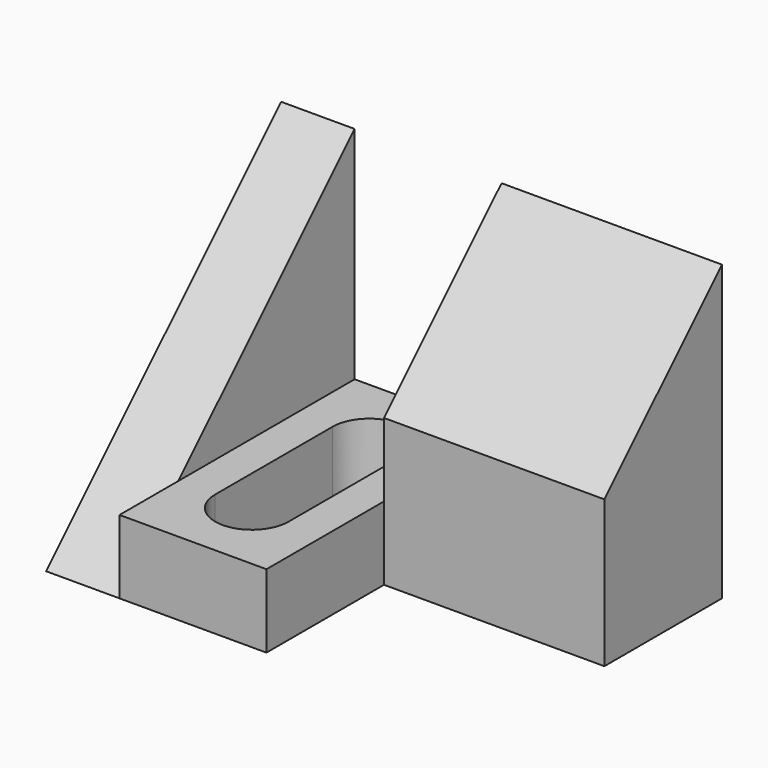
from build123d import *

# Parameters (mm, degrees)
F0_W     = 6.35
F0_H     = 25.4
F0_W_2   = 19.05
F0_H_2   = 12.7
F1_DEPTH = 25.4
F2_W     = 12.7
F2_H     = 25.4
F3_DEPTH = 19.05
F5_DEPTH = 38.101
F7_DEPTH = 6.35


with BuildPart() as f1:
    # F0 (on Top) → F1 (new body)
    with BuildSketch(Plane.XY):
        with Locations((3.175, 12.7)):
            Rectangle(F0_W, F0_H)
        Polygon((6.35, 25.4), (6.35, 0), (19.05, 0), (19.05, 12.7), (19.05, 25.4), align=None)
        with BuildLine():
            Line((9.525, 6.35), (9.525, 19.05))
            ThreePointArc((9.525, 19.05), (12.7, 22.225), (15.875, 19.05))
            Line((15.875, 19.05), (15.875, 6.35))
            ThreePointArc((15.875, 6.35), (12.7, 3.175), (9.525, 6.35))
        make_face(mode=Mode.SUBTRACT)
        with Locations((28.575, 19.05)):
            Rectangle(F0_W_2, F0_H_2)
    extrude(amount=F1_DEPTH)

    # F2 (on face) → F3 (cut)
    with BuildSketch(Plane.XY.offset(25.4)):
        with Locations((12.7, 12.7)):
            Rectangle(F2_W, F2_H)
        with BuildLine():
            Line((9.525, 6.35), (9.525, 19.05))
            ThreePointArc((9.525, 19.05), (12.7, 22.225), (15.875, 19.05))
            Line((15.875, 19.05), (15.875, 6.35))
            ThreePointArc((15.875, 6.35), (12.7, 3.175), (9.525, 6.35))
        make_face(mode=Mode.SUBTRACT)
    extrude(amount=-F3_DEPTH, mode=Mode.SUBTRACT)

    # F4 (on face) → F5 (cut, through all)
    with BuildSketch(Plane.YZ.offset(38.1)):
        Polygon((0, 0), (25.4, 25.4), (0, 25.4), align=None)
    extrude(amount=-F5_DEPTH, mode=Mode.SUBTRACT)

    # F6 (on Top) → F7 (join)
    with BuildSketch(Plane.XY):
        with BuildLine():
            Line((9.525, 6.35), (6.35, 6.35))
            Line((6.35, 6.35), (6.35, 0))
            Line((6.35, 0), (19.05, 0))
            Line((19.05, 0), (19.05, 6.35))
            Line((19.05, 6.35), (15.875, 6.35))
            ThreePointArc((15.875, 6.35), (12.7, 3.189448), (9.525, 6.35))
        make_face()
    extrude(amount=F7_DEPTH)


solid = f1.part
